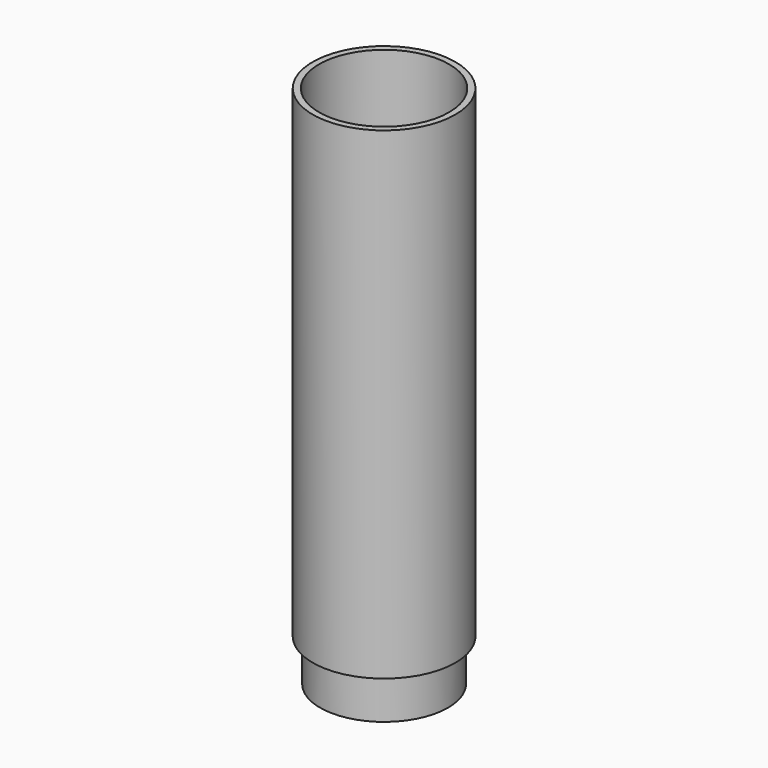
from build123d import *

# Parameters (mm, degrees)
F1_R     = 17
F1_R_2   = 15.5
F2_DEPTH = 115
F3_R     = 17
F4_DEPTH = 2
F5_R     = 15.25
F6_DEPTH = 10


with BuildPart() as f2:
    # F1 (on offset) → F2 (new body)
    with BuildSketch(Plane.XY.offset(222)):
        Circle(F1_R)
        Circle(F1_R_2, mode=Mode.SUBTRACT)
    extrude(amount=F2_DEPTH)

    # F3 (on offset) → F4 (join)
    with BuildSketch(Plane.XY.offset(222)):
        Circle(F3_R)
    extrude(amount=F4_DEPTH)

    # F5 (on face) → F6 (join)
    with BuildSketch(Plane(origin=(0, 0, 222), x_dir=(1, 0, 0), z_dir=(0, 0, -1))):
        Circle(F5_R)
    extrude(amount=F6_DEPTH)


solid = f2.part
